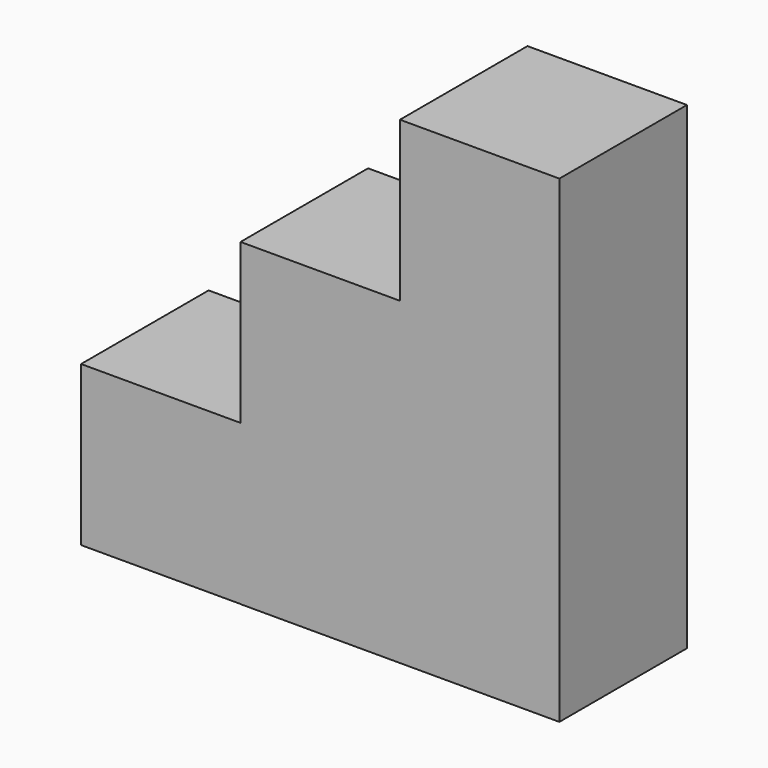
from build123d import *

# Parameters (mm, degrees)
F0_W     = 19.05
F0_H     = 19.05
F1_DEPTH = 9.525


with BuildPart() as f1:
    # F0 (on Front) → F1 (new body, symmetric)
    with BuildSketch(Plane.XZ):
        Polygon((0, 19.05), (-19.05, 19.05), (-19.05, 0.013117), (-19.05, -19.036883), (-19.05, -19.05), (0, -19.05), (19.05, -19.05), (19.05, 19.05), align=None)
        with Locations((9.525, 28.575)):
            Rectangle(F0_W, F0_H)
        with Locations((-28.575, -9.511883)):
            Rectangle(F0_W, F0_H)
    extrude(amount=F1_DEPTH, both=True)


solid = f1.part
